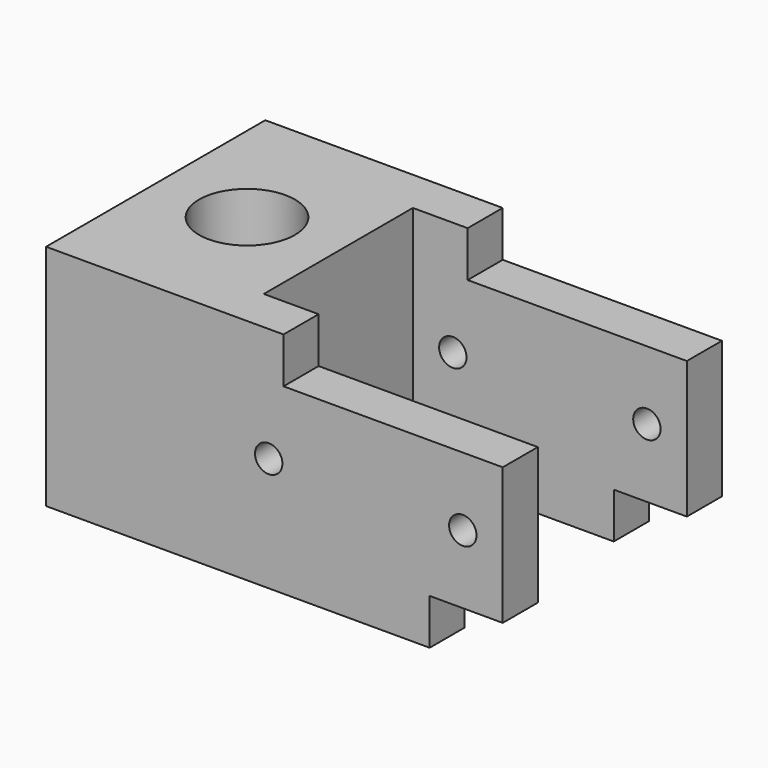
from build123d import *

# Parameters (mm, degrees)
F0_W     = 25.4
F0_H     = 38.1
F1_DEPTH = 31.75
F2_W     = 6.096
F2_H     = 31.75
F3_DEPTH = 38.1
F4_R     = 6.6675
F5_DEPTH = 31.751
F6_R     = 1.905
F7_DEPTH = 38.101
F8_W     = 10.16
F8_H     = 6.35
F8_W_2   = 30.48
F9_DEPTH = 38.101


with BuildPart() as f1:
    # F0 (on Top) → F1 (new body)
    with BuildSketch(Plane.XY):
        Rectangle(F0_W, F0_H)
    extrude(amount=F1_DEPTH)

    # F2 (on face) → F3 (join)
    with BuildSketch(Plane.YZ.offset(12.7)):
        with Locations((-16.002, 15.875)):
            Rectangle(F2_W, F2_H)
        with Locations((16.002, 15.875)):
            Rectangle(F2_W, F2_H)
    extrude(amount=F3_DEPTH)

    # F4 (on face) → F5 (cut, through all)
    with BuildSketch(Plane.XY.offset(31.75)):
        Circle(F4_R)
    extrude(amount=-F5_DEPTH, mode=Mode.SUBTRACT)

    # F6 (on face) → F7 (cut, through all)
    with BuildSketch(Plane(origin=(0, 19.05, 0), x_dir=(-1, 0, 0), z_dir=(0, 1, 0))):
        with Locations((-45.24375, 15.875)):
            Circle(F6_R)
        with Locations((-18.25625, 15.875)):
            Circle(F6_R)
    extrude(amount=-F7_DEPTH, mode=Mode.SUBTRACT)

    # F8 (on face) → F9 (cut, through all)
    with BuildSketch(Plane.XZ.offset(19.05)):
        with Locations((45.72, 3.175)):
            Rectangle(F8_W, F8_H)
        with Locations((35.56, 28.575)):
            Rectangle(F8_W_2, F8_H)
    extrude(amount=-F9_DEPTH, mode=Mode.SUBTRACT)


solid = f1.part
